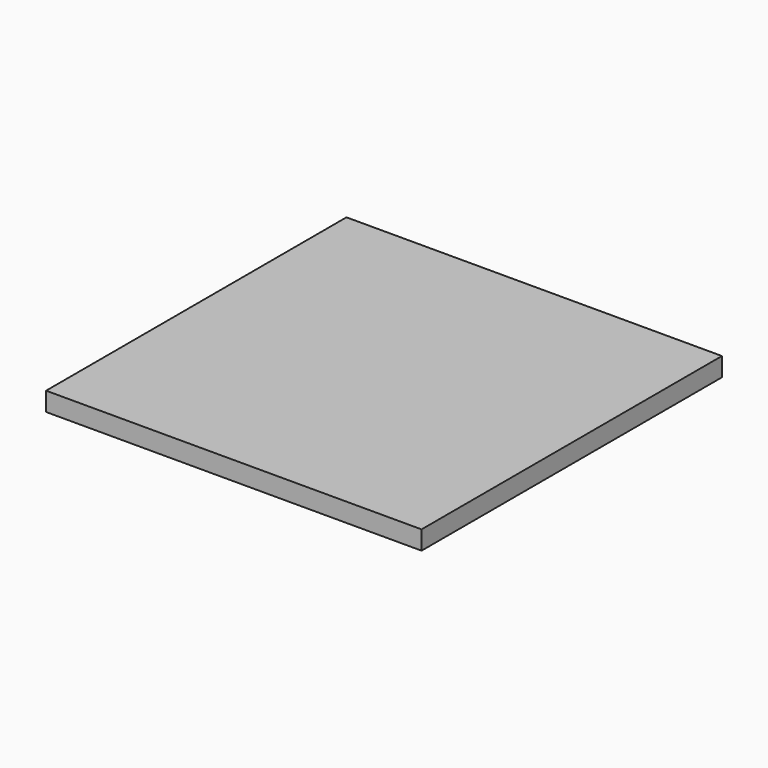
from build123d import *

# Parameters (mm, degrees)
F0_W     = 127
F0_H     = 127
F1_DEPTH = 6.35
F2_R     = 6.35
F2_R_2   = 3.175
F3_DEPTH = 254


with BuildPart() as f1:
    # F0 (on Top) → F1 (new body)
    with BuildSketch(Plane.XY):
        with Locations((6.969599, 17.228024)):
            Rectangle(F0_W, F0_H)
    extrude(amount=F1_DEPTH)

    # F2 (on face) → F3 (cut)
    with BuildSketch(Plane.XZ.offset(46.271976)):
        with Locations((-6.880401, 18.15271)):
            Circle(F2_R)
        with Locations((52.549634, 18.415)):
            Circle(F2_R_2)
    extrude(amount=-F3_DEPTH, mode=Mode.SUBTRACT)


solid = f1.part
